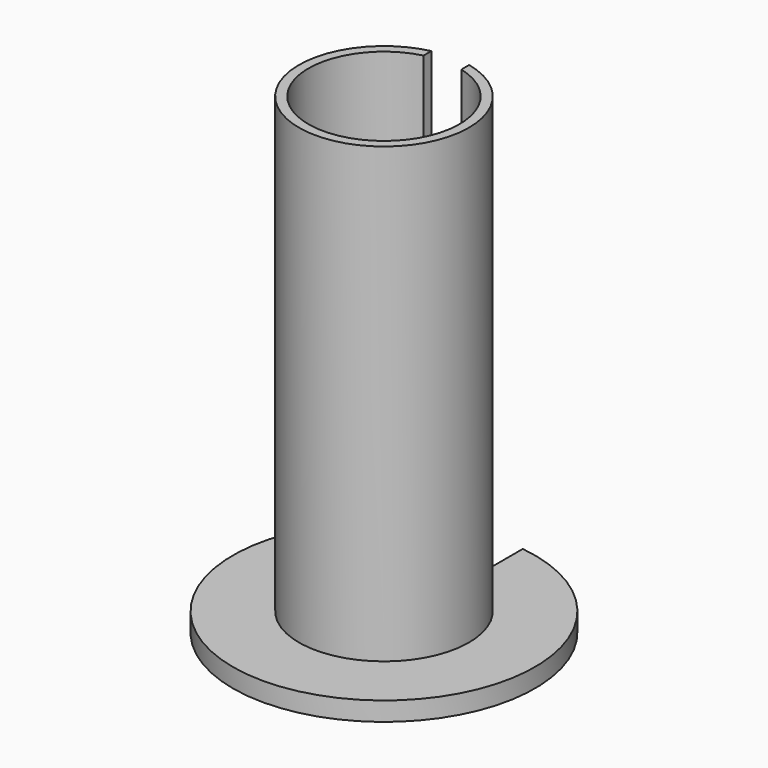
from build123d import *

# Parameters (mm, degrees)
F0_R     = 50.8
F0_R_2   = 25.4
F1_DEPTH = 6.35
F2_R     = 28.575
F2_R_2   = 25.4
F3_DEPTH = 152.4
F4_W     = 12.7
F4_H     = 51.4328
F5_DEPTH = 158.751


with BuildPart() as f1:
    # F0 (on Top) → F1 (new body)
    with BuildSketch(Plane.XY):
        Circle(F0_R)
        Circle(F0_R_2, mode=Mode.SUBTRACT)
    extrude(amount=F1_DEPTH)

    # F2 (on face) → F3 (join)
    with BuildSketch(Plane.XY.offset(6.35)):
        Circle(F2_R)
        Circle(F2_R_2, mode=Mode.SUBTRACT)
    extrude(amount=F3_DEPTH)

    # F4 (on face) → F5 (cut, through all)
    with BuildSketch(Plane(origin=(0, 0, 0), x_dir=(1, 0, 0), z_dir=(0, 0, -1))):
        with Locations((0, -39.142372)):
            Rectangle(F4_W, F4_H)
    extrude(amount=-F5_DEPTH, mode=Mode.SUBTRACT)


solid = f1.part
